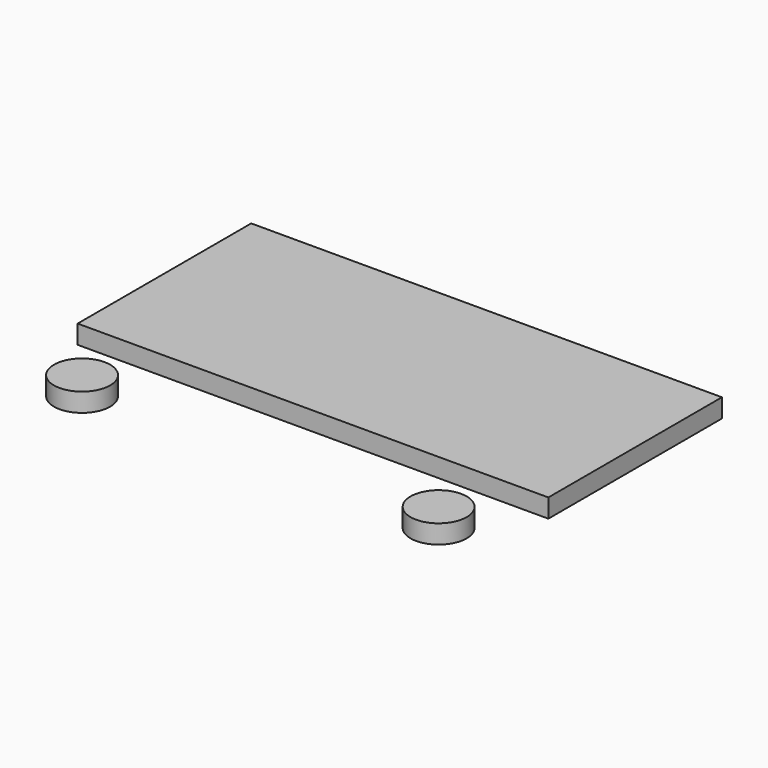
from build123d import *

# Parameters (mm, degrees)
F0_W     = 50.27
F0_H     = 23.17
F0_R     = 3
F1_DEPTH = 2


with BuildPart() as f1:
    # F0 (on Top) → F1 (new body)
    with BuildSketch(Plane.XY):
        with Locations((0, -11.585)):
            Rectangle(F0_W, F0_H)
        with Locations((-19.04, -30.2)):
            Circle(F0_R)
        with Locations((19.04, -30.2)):
            Circle(F0_R)
    extrude(amount=F1_DEPTH)


solid = f1.part
